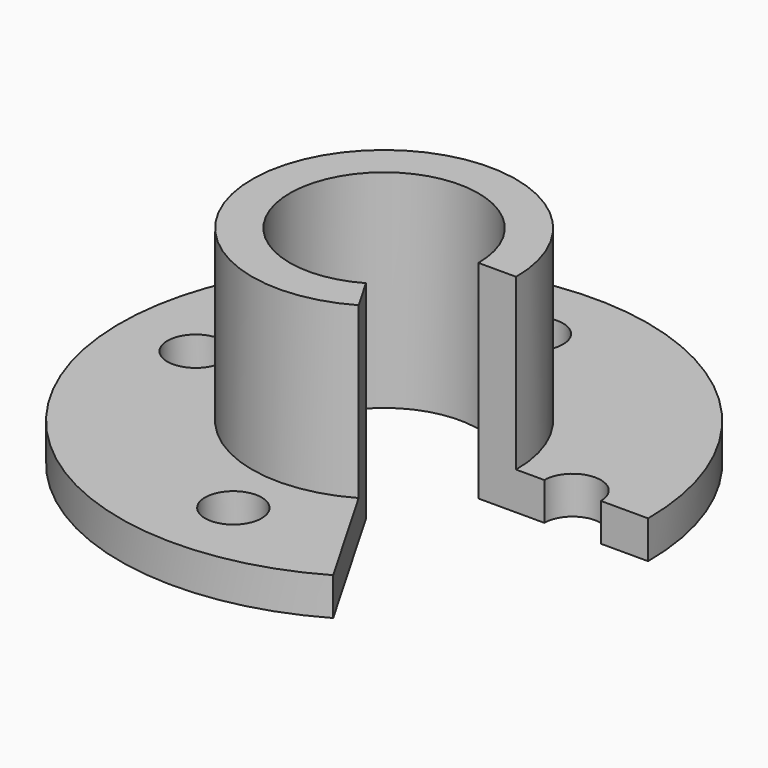
from build123d import *

# Parameters (mm, degrees)
F1_ANGLE = 300
F2_R     = 7.5
F3_DEPTH = 10.001


with BuildPart() as f1:
    # F0 (on Front) → F1 (revolve)
    with BuildSketch(Plane.XZ):
        Polygon((35, 55), (25, 55), (25, 0), (70, 0), (70, 10), (35, 10), align=None)
    revolve(axis=Axis((0, 0, 30.149998), (0, 0, 1)), revolution_arc=F1_ANGLE)

    # F2 (on face) → F3 (cut, through all)
    with BuildSketch(Plane.XY.offset(10)):
        with BuildLine():
            Line((42.465329, 0), (57.465329, 0))
            ThreePointArc((57.465329, 0), (49.965329, 7.5), (42.465329, 0))
        make_face()
        with Locations((0, 49.965329)):
            Circle(F2_R)
        with Locations((-49.965329, 0)):
            Circle(F2_R)
        with Locations((0, -49.965329)):
            Circle(F2_R)
    extrude(amount=-F3_DEPTH, mode=Mode.SUBTRACT)


solid = f1.part
